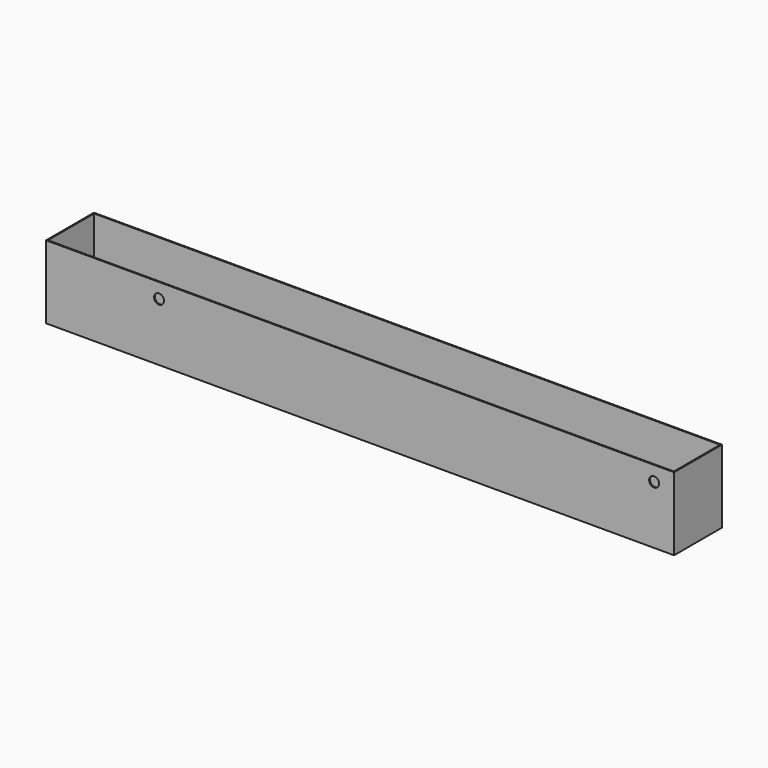
from build123d import *

# Parameters (mm, degrees)
F0_W     = 1890
F0_H     = 180
F1_DEPTH = 220
F2_W     = 1884
F2_H     = 174
F3_DEPTH = 217
F4_R     = 15
F5_DEPTH = 3


with BuildPart() as f1:
    # F0 (on Top) → F1 (new body)
    with BuildSketch(Plane.XY):
        with Locations((898.785665, 53.946961)):
            Rectangle(F0_W, F0_H)
    extrude(amount=F1_DEPTH)

    # F2 (on face) → F3 (cut)
    with BuildSketch(Plane.XY.offset(220)):
        with Locations((898.785665, 53.946961)):
            Rectangle(F2_W, F2_H)
    extrude(amount=-F3_DEPTH, mode=Mode.SUBTRACT)

    # F4 (on face) → F5 (cut, through all)
    with BuildSketch(Plane.XZ.offset(36.053039)):
        with Locations((293.785665, 175)):
            Circle(F4_R)
        with Locations((1783.785665, 175)):
            Circle(F4_R)
    extrude(amount=-F5_DEPTH, mode=Mode.SUBTRACT)


solid = f1.part
